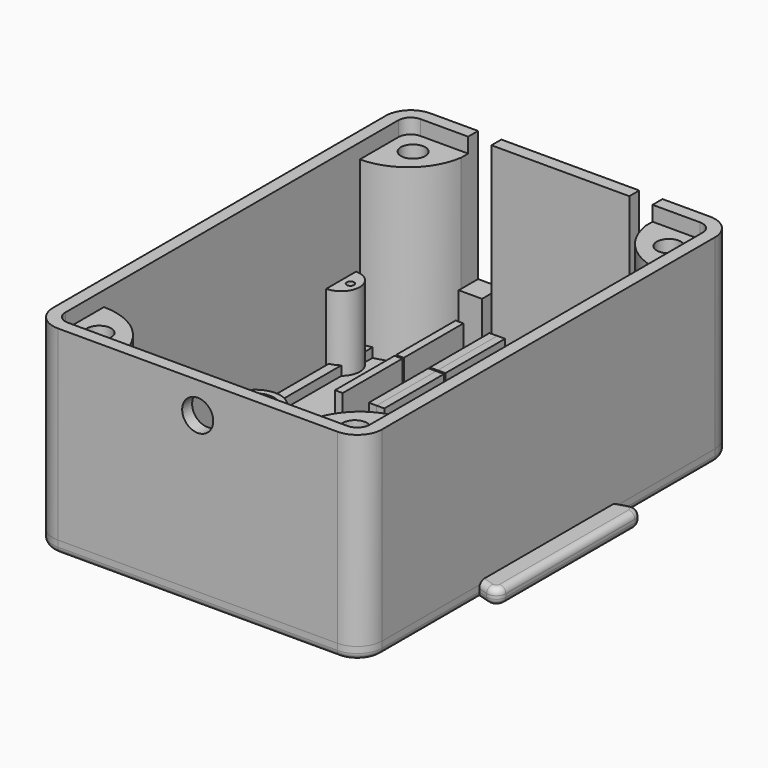
from build123d import *

# Parameters (mm, degrees)
PAD_DEPTH                     = 2.5
FILLET_R                      = 1.5
FILLET001_R                   = 1
FILLET002_R                   = 1.24
SKETCH001_R                   = 1.25
PAD001_DEPTH                  = 3
SKETCH002_R                   = 1.25
PAD002_DEPTH                  = 3
SKETCH003_R                   = 4
SKETCH003_R_2                 = 3
PAD003_DEPTH                  = 4.075
SKETCH004_R                   = 0.6
POCKET_DEPTH                  = 2.501
FILLET003_R                   = 0.5
PAD004_DEPTH                  = 32
POCKET001_DEPTH               = 30
SKETCH007_R                   = 1.95
PAD005_DEPTH                  = 27.6
SKETCH007_MIRRORED_2_R        = 1.95
PAD005_MIRRORED_2_DEPTH       = 27.6
FILLET004_R                   = 1
SKETCH013_R                   = 2.26
SKETCH013_R_2                 = 1.26
PAD009_DEPTH                  = 9
SKETCH015_W                   = 1.25
SKETCH015_H                   = 12
PAD011_DEPTH                  = 11.75
SKETCH017_W                   = 3.75
SKETCH017_H                   = 5.48
SKETCH017_H_2                 = 6.14
POCKET004_DEPTH               = 21
SKETCH018_R                   = 2.5
POCKET005_DEPTH               = 5
SKETCH020_R                   = 0.6
PAD014_DEPTH                  = 12
PAD006_DEPTH                  = 2
PAD007_DEPTH                  = 1.5
POCKET002_DEPTH               = 1.5
SKETCH011_R                   = 1.5
PAD008_DEPTH                  = 1.5
SKETCH011_MIRRORED002_2_R     = 1.5
PAD008_MIRRORED002_2_DEPTH    = 1.5
SKETCH012_R                   = 1.5
POCKET003_DEPTH               = 2
SKETCH012_MIRRORED004_2_R     = 1.5
POCKET003_MIRRORED004_2_DEPTH = 2
FILLET005_R                   = 1
CHAMFER_SIZE                  = 1.98
SKETCH014_R                   = 2.26
SKETCH014_R_2                 = 1.26
PAD010_DEPTH                  = 9
SKETCH016_W                   = 1.25
SKETCH016_H                   = 12
PAD012_DEPTH                  = 11.75
SKETCH019_W                   = 3.75
SKETCH019_H                   = 3.9
PAD013_DEPTH                  = 9


with BuildPart() as keybody:
    # Sketch → Pad (new body)
    with BuildSketch(Plane.XY):
        Polygon((0, 6), (-45, 6), (-45, -6), (0, -6), (30, -15), (30, 15), align=None)
    extrude(amount=PAD_DEPTH)

    # Fillet
    fillet_edges = [keybody.edges().sort_by_distance(p)[0] for p in [
        (30, 15, 1.25),
        (30, -15, 1.25),
    ]]
    fillet(fillet_edges, radius=FILLET_R)

    # Fillet001
    fillet001_edges = [keybody.edges().sort_by_distance(p)[0] for p in [
        (14.034489, 10.210347, 2.5),
        (14.034489, 10.210347, 0),
        (29.395396, 14.187393, 0),
        (29.395396, 14.187393, 2.5),
        (30, 0, 2.5),
        (30, 0, 0),
        (14.034489, -10.210347, 2.5),
        (14.034489, -10.210347, 0),
        (29.395396, -14.187393, 0),
        (29.395396, -14.187393, 2.5),
    ]]
    fillet(fillet001_edges, radius=FILLET001_R)

    # Fillet002
    fillet002_edges = [keybody.edges().sort_by_distance(p)[0] for p in [
        (-45, 0, 2.5),
        (-45, 0, 0),
    ]]
    fillet(fillet002_edges, radius=FILLET002_R)

    # Sketch001 (on Face1 of Fillet002) → Pad001 (join)
    with BuildSketch(Plane.XZ.offset(6)):
        with Locations((-43.75, 1.25)):
            Circle(SKETCH001_R)
    extrude(amount=PAD001_DEPTH)

    # Sketch002 (on Face7 of Pad001) → Pad002 (join)
    with BuildSketch(Plane(origin=(0, 6, 0), x_dir=(-1, 0, 0), z_dir=(0, 1, 0))):
        with Locations((43.75, 1.25)):
            Circle(SKETCH002_R)
    extrude(amount=PAD002_DEPTH)

    # Sketch003 (on Face20 of Pad002) → Pad003 (join)
    with BuildSketch(Plane.XY.offset(2.5)):
        with Locations((-20.7, 0)):
            Circle(SKETCH003_R)
        with Locations((-20.7, 0)):
            Circle(SKETCH003_R_2, mode=Mode.SUBTRACT)
        with Locations((-33, 0)):
            Circle(SKETCH003_R)
        with Locations((-33, 0)):
            Circle(SKETCH003_R_2, mode=Mode.SUBTRACT)
    extrude(amount=PAD003_DEPTH)

    # Sketch004 (on Face20 of Pad003) → Pocket (cut, through all)
    with BuildSketch(Plane.XY.offset(2.5)):
        with Locations((-10.35, 2)):
            Circle(SKETCH004_R)
        with Locations((-10.35, -2)):
            Circle(SKETCH004_R)
    extrude(amount=-POCKET_DEPTH, mode=Mode.SUBTRACT)

    # Fillet003
    fillet003_edges = [keybody.edges().sort_by_distance(p)[0] for p in [
        (-10.95, -2, 0),
        (-10.95, 2, 0),
        (-10.95, 2, 2.5),
        (-10.95, -2, 2.5),
    ]]
    fillet(fillet003_edges, radius=FILLET003_R)


with BuildPart() as main_box:
    # Sketch005 → Pad004 (new body)
    with BuildSketch(Plane.XY):
        with BuildLine():
            Line((-22.5, 37.5), (22.5, 37.5))
            ThreePointArc((26.5, 33.5), (25.328427, 36.328427), (22.5, 37.5))
            Line((26.5, 33.5), (26.5, -33.5))
            ThreePointArc((22.5, -37.5), (25.328427, -36.328427), (26.5, -33.5))
            Line((22.5, -37.5), (-22.5, -37.5))
            ThreePointArc((-26.5, -33.5), (-25.328427, -36.328427), (-22.5, -37.5))
            Line((-26.5, -33.5), (-26.5, 33.5))
            ThreePointArc((-22.5, 37.5), (-25.328427, 36.328427), (-26.5, 33.5))
        make_face()
    extrude(amount=PAD004_DEPTH)

    # Sketch006 (on Face10 of Pad004) → Pocket001 (cut)
    with BuildSketch(Plane.XY.offset(32)):
        with BuildLine():
            Line((-22.5, 35.5), (22.5, 35.5))
            ThreePointArc((24.5, 33.5), (23.914214, 34.914214), (22.5, 35.5))
            Line((24.5, 33.5), (24.5, -33.5))
            ThreePointArc((22.5, -35.5), (23.914214, -34.914214), (24.5, -33.5))
            Line((22.5, -35.5), (-22.5, -35.5))
            ThreePointArc((-24.5, -33.5), (-23.914214, -34.914214), (-22.5, -35.5))
            Line((-24.5, -33.5), (-24.5, 33.5))
            ThreePointArc((-22.5, 35.5), (-23.914214, 34.914214), (-24.5, 33.5))
        make_face()
    extrude(amount=-POCKET001_DEPTH, mode=Mode.SUBTRACT)

    # Sketch007 (on Face19 of Pocket001) → Pad005 (join)
    with BuildSketch(Plane.XY.offset(2)):
        with BuildLine():
            Line((-24.5, 25.75), (-24.5, 35.5))
            Line((-24.5, 35.5), (-14.75, 35.5))
            ThreePointArc((-24.5, 25.75), (-17.605709, 28.605709), (-14.75, 35.5))
        make_face()
        with Locations((-20.6, 31.6)):
            Circle(SKETCH007_R, mode=Mode.SUBTRACT)
    pad005 = extrude(amount=PAD005_DEPTH)

    # Sketch007 Mirrored 2 → Pad005 Mirrored 2 (add)
    with BuildSketch(Plane(origin=(0, 0, 2), x_dir=(-1, 0, 0), z_dir=(0, 0, -1))):
        with BuildLine():
            Line((-24.5, 25.75), (-24.5, 35.5))
            Line((-24.5, 35.5), (-14.75, 35.5))
            ThreePointArc((-24.5, 25.75), (-17.605709, 28.605709), (-14.75, 35.5))
        make_face()
        with Locations((-20.6, 31.6)):
            Circle(SKETCH007_MIRRORED_2_R, mode=Mode.SUBTRACT)
    pad005_mirrored_2 = extrude(amount=-PAD005_MIRRORED_2_DEPTH)

    # Mirrored001: Pad005, Pad005 Mirrored 2 across Sketch007 H_Axis
    add(pad005.mirror(Plane(origin=(0, 0, 2), x_dir=(0, 0, 1), z_dir=(0, 1, 0))))
    add(pad005_mirrored_2.mirror(Plane(origin=(0, 0, 2), x_dir=(0, 0, 1), z_dir=(0, 1, 0))))

    # Fillet004
    fillet004_edges = [main_box.edges().sort_by_distance(p)[0] for p in [
        (-26.5, 0, 0),
        (-25.328427, 36.328427, 0),
        (0, 37.5, 0),
        (25.328427, 36.328427, 0),
        (26.5, 0, 0),
        (25.328427, -36.328427, 0),
        (0, -37.5, 0),
        (-25.328427, -36.328427, 0),
    ]]
    fillet(fillet004_edges, radius=FILLET004_R)

    # Sketch013 (on Face29 of Fillet004) → Pad009 (join)
    with BuildSketch(Plane.XY.offset(2)):
        with Locations((13.6, -7.5)):
            Circle(SKETCH013_R)
        with Locations((13.6, -7.5)):
            Circle(SKETCH013_R_2, mode=Mode.SUBTRACT)
        with Locations((-13.6, -7.5)):
            Circle(SKETCH013_R)
        with Locations((-13.6, -7.5)):
            Circle(SKETCH013_R_2, mode=Mode.SUBTRACT)
    extrude(amount=PAD009_DEPTH)

    # Sketch015 (on Face29 of Pad009) → Pad011 (join)
    with BuildSketch(Plane.XY.offset(2)):
        with Locations((-0.625, 4.5)):
            Rectangle(SKETCH015_W, SKETCH015_H)
        with Locations((0.625, 16.8)):
            Rectangle(SKETCH015_W, SKETCH015_H)
        with Locations((6.075, 16.8)):
            Rectangle(SKETCH015_W, SKETCH015_H)
        with Locations((-6.075, 4.5)):
            Rectangle(SKETCH015_W, SKETCH015_H)
    extrude(amount=PAD011_DEPTH)

    # Sketch017 (on Face4 of Pad011) → Pocket004 (cut)
    with BuildSketch(Plane.XY.offset(32)):
        with Locations((-12.975, 36.48075)):
            Rectangle(SKETCH017_W, SKETCH017_H)
        with Locations((12.975, 36.72)):
            Rectangle(SKETCH017_W, SKETCH017_H_2)
    extrude(amount=-POCKET004_DEPTH, mode=Mode.SUBTRACT)

    # Sketch018 (on Face7 of Pocket004) → Pocket005 (cut)
    with BuildSketch(Plane.XZ.offset(37.5)):
        with Locations((0, 27)):
            Circle(SKETCH018_R)
    extrude(amount=-POCKET005_DEPTH, mode=Mode.SUBTRACT)

    # Sketch020 (on Face38 of Pocket005) → Pad014 (join)
    with BuildSketch(Plane.XY.offset(2)):
        with BuildLine():
            Line((-24.5, 25), (-24.5, 19))
            ThreePointArc((-24.5, 19), (-21.5, 22), (-24.5, 25))
        make_face()
        with Locations((-23, 22)):
            Circle(SKETCH020_R, mode=Mode.SUBTRACT)
        with BuildLine():
            Line((24.5, 25), (24.5, 19))
            ThreePointArc((24.5, 25), (21.5, 22), (24.5, 19))
        make_face()
        with Locations((23, 22)):
            Circle(SKETCH020_R, mode=Mode.SUBTRACT)
    extrude(amount=PAD014_DEPTH)


with BuildPart() as main_lid:
    # Sketch008 → Pad006 (new body)
    with BuildSketch(Plane.XY):
        with BuildLine():
            Line((-22.5, 37.5), (22.5, 37.5))
            ThreePointArc((26.5, 33.5), (25.328427, 36.328427), (22.5, 37.5))
            Line((26.5, 33.5), (26.5, -33.5))
            ThreePointArc((22.5, -37.5), (25.328427, -36.328427), (26.5, -33.5))
            Line((22.5, -37.5), (-22.5, -37.5))
            ThreePointArc((-26.5, -33.5), (-25.328427, -36.328427), (-22.5, -37.5))
            Line((-26.5, -33.5), (-26.5, 33.5))
            ThreePointArc((-22.5, 37.5), (-25.328427, 36.328427), (-26.5, 33.5))
        make_face()
    extrude(amount=PAD006_DEPTH)

    # Sketch009 (on Face10 of Pad006) → Pad007 (join)
    with BuildSketch(Plane.XY.offset(2)):
        with BuildLine():
            Line((-22.1, 35.1), (22.1, 35.1))
            ThreePointArc((24.1, 33.1), (23.514214, 34.514214), (22.1, 35.1))
            Line((24.1, 33.1), (24.1, -33.1))
            ThreePointArc((22.1, -35.1), (23.514214, -34.514214), (24.1, -33.1))
            Line((22.1, -35.1), (-22.1, -35.1))
            ThreePointArc((-24.1, -33.1), (-23.514214, -34.514214), (-22.1, -35.1))
            Line((-24.1, -33.1), (-24.1, 33.1))
            ThreePointArc((-22.1, 35.1), (-23.514214, 34.514214), (-24.1, 33.1))
        make_face()
    extrude(amount=PAD007_DEPTH)

    # Sketch010 (on Face19 of Pad007) → Pocket002 (cut)
    with BuildSketch(Plane.XY.offset(3.5)):
        with BuildLine():
            Line((-21.6, 33.6), (21.6, 33.6))
            ThreePointArc((22.6, 32.6), (22.307107, 33.307107), (21.6, 33.6))
            Line((22.6, 32.6), (22.6, -32.6))
            ThreePointArc((21.6, -33.6), (22.307107, -33.307107), (22.6, -32.6))
            Line((21.6, -33.6), (-21.6, -33.6))
            ThreePointArc((-22.6, -32.6), (-22.307107, -33.307107), (-21.6, -33.6))
            Line((-22.6, -32.6), (-22.6, 32.6))
            ThreePointArc((-21.6, 33.6), (-22.307107, 33.307107), (-22.6, 32.6))
        make_face()
    extrude(amount=-POCKET002_DEPTH, mode=Mode.SUBTRACT)

    # Sketch011 (on Face28 of Pocket002) → Pad008 (join)
    with BuildSketch(Plane.XY.offset(2)):
        with BuildLine():
            Line((-23, 26.5), (-23, 34))
            Line((-23, 34), (-15.5, 34))
            ThreePointArc((-23, 26.5), (-17.696699, 28.696699), (-15.5, 34))
        make_face()
        with Locations((-20.6, 31.6)):
            Circle(SKETCH011_R, mode=Mode.SUBTRACT)
    pad008 = extrude(amount=PAD008_DEPTH)

    # Sketch011 Mirrored002 2 → Pad008 Mirrored002 2 (add)
    with BuildSketch(Plane(origin=(0, 0, 2), x_dir=(-1, 0, 0), z_dir=(0, 0, -1))):
        with BuildLine():
            Line((-23, 26.5), (-23, 34))
            Line((-23, 34), (-15.5, 34))
            ThreePointArc((-23, 26.5), (-17.696699, 28.696699), (-15.5, 34))
        make_face()
        with Locations((-20.6, 31.6)):
            Circle(SKETCH011_MIRRORED002_2_R, mode=Mode.SUBTRACT)
    pad008_mirrored002_2 = extrude(amount=-PAD008_MIRRORED002_2_DEPTH)

    # Mirrored003: Pad008, Pad008 Mirrored002 2 across Sketch011 H_Axis
    add(pad008.mirror(Plane(origin=(0, 0, 2), x_dir=(0, 0, 1), z_dir=(0, 1, 0))))
    add(pad008_mirrored002_2.mirror(Plane(origin=(0, 0, 2), x_dir=(0, 0, 1), z_dir=(0, 1, 0))))

    # Sketch012 (on Face30 of MultiTransform001) → Pocket003 (cut)
    with BuildSketch(Plane.XY.offset(2)):
        with Locations((-20.6, 31.6)):
            Circle(SKETCH012_R)
    pocket003 = extrude(amount=-POCKET003_DEPTH, mode=Mode.SUBTRACT)

    # Sketch012 Mirrored004 2 → Pocket003 Mirrored004 2 (cut)
    with BuildSketch(Plane(origin=(0, 0, 2), x_dir=(-1, 0, 0), z_dir=(0, 0, -1))):
        with Locations((-20.6, 31.6)):
            Circle(SKETCH012_MIRRORED004_2_R)
    pocket003_mirrored004_2 = extrude(amount=POCKET003_MIRRORED004_2_DEPTH, mode=Mode.SUBTRACT)

    # Mirrored005: Pocket003, Pocket003 Mirrored004 2 across Sketch012 H_Axis
    add(pocket003.mirror(Plane(origin=(0, 0, 2), x_dir=(0, 0, 1), z_dir=(0, 1, 0))), mode=Mode.SUBTRACT)
    add(pocket003_mirrored004_2.mirror(Plane(origin=(0, 0, 2), x_dir=(0, 0, 1), z_dir=(0, 1, 0))), mode=Mode.SUBTRACT)

    # Fillet005
    fillet005_edges = [main_lid.edges().sort_by_distance(p)[0] for p in [
        (26.5, 0, 0),
        (25.328427, 36.328427, 0),
        (0, 37.5, 0),
        (-25.328427, 36.328427, 0),
        (-26.5, 0, 0),
        (-25.328427, -36.328427, 0),
        (0, -37.5, 0),
        (25.328427, -36.328427, 0),
    ]]
    fillet(fillet005_edges, radius=FILLET005_R)

    # Chamfer
    chamfer_edges = [main_lid.edges().sort_by_distance(p)[0] for p in [
        (22.1, 31.6, 0),
        (-22.1, 31.6, 0),
        (-22.1, -31.6, 0),
        (22.1, -31.6, 0),
    ]]
    chamfer(chamfer_edges, length=CHAMFER_SIZE)

    # Sketch014 (on Face52 of Chamfer) → Pad010 (join)
    with BuildSketch(Plane.XY.offset(2)):
        with Locations((13.6, -7.5)):
            Circle(SKETCH014_R)
        with Locations((13.6, -7.5)):
            Circle(SKETCH014_R_2, mode=Mode.SUBTRACT)
        with Locations((-13.6, -7.5)):
            Circle(SKETCH014_R)
        with Locations((-13.6, -7.5)):
            Circle(SKETCH014_R_2, mode=Mode.SUBTRACT)
    extrude(amount=PAD010_DEPTH)

    # Sketch016 (on Face29 of Pad009) → Pad012 (join)
    with BuildSketch(Plane.XY.offset(2)):
        with Locations((-0.625, 16.8)):
            Rectangle(SKETCH016_W, SKETCH016_H)
        with Locations((0.625, 4.5)):
            Rectangle(SKETCH016_W, SKETCH016_H)
        with Locations((6.075, 4.5)):
            Rectangle(SKETCH016_W, SKETCH016_H)
        with Locations((-6.075, 16.8)):
            Rectangle(SKETCH016_W, SKETCH016_H)
    extrude(amount=PAD012_DEPTH)

    # Sketch019 (on Face52 of Pad012) → Pad013 (join)
    with BuildSketch(Plane.XY.offset(2)):
        with Locations((-12.975, 35.55)):
            Rectangle(SKETCH019_W, SKETCH019_H)
        with Locations((12.975, 35.55)):
            Rectangle(SKETCH019_W, SKETCH019_H)
    extrude(amount=PAD013_DEPTH)


solid = Compound([keybody.part, main_box.part, main_lid.part])
